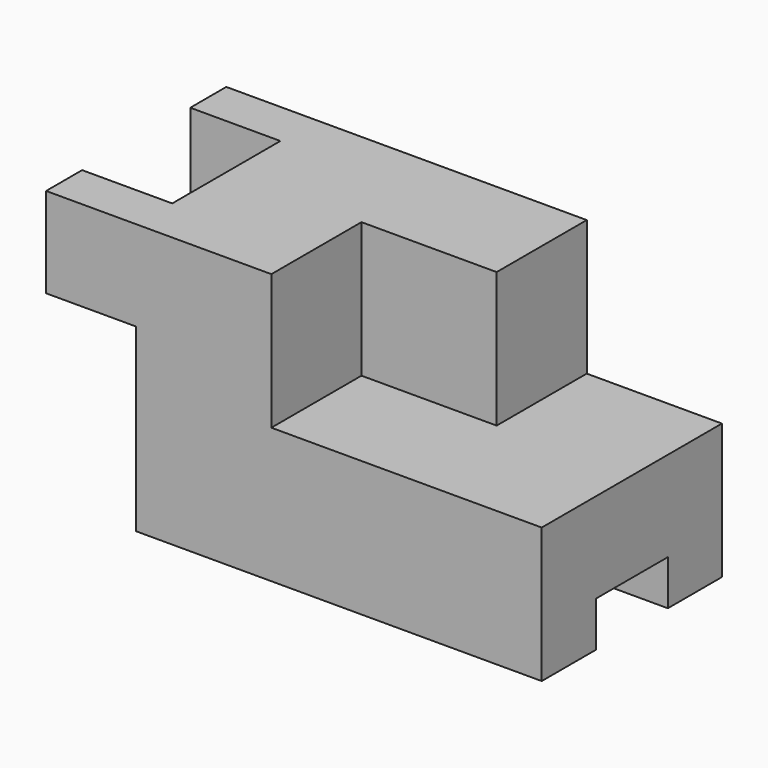
from build123d import *

# Parameters (mm, degrees)
F0_W      = 110
F0_H      = 50
F1_DEPTH  = 60
F2_W      = 30
F2_H      = 30
F3_DEPTH  = 50.001
F4_W      = 20
F4_H      = 40
F5_DEPTH  = 50.001
F6_W      = 30
F6_H      = 30
F7_DEPTH  = 25
F8_W      = 20
F8_H      = 10
F9_DEPTH  = 110.001
F10_W     = 20
F10_H     = 30
F11_DEPTH = 60.001


with BuildPart() as f1:
    # F0 (on Top) → F1 (new body)
    with BuildSketch(Plane.XY):
        Rectangle(F0_W, F0_H)
    extrude(amount=F1_DEPTH)

    # F2 (on face) → F3 (cut, through all)
    with BuildSketch(Plane.XZ.offset(25)):
        with Locations((40, 45)):
            Rectangle(F2_W, F2_H)
    extrude(amount=-F3_DEPTH, mode=Mode.SUBTRACT)

    # F4 (on face) → F5 (cut, through all)
    with BuildSketch(Plane.XZ.offset(25)):
        with Locations((-45, 20)):
            Rectangle(F4_W, F4_H)
    extrude(amount=-F5_DEPTH, mode=Mode.SUBTRACT)

    # F6 (on face) → F7 (cut)
    with BuildSketch(Plane.XZ.offset(25)):
        with Locations((10, 45)):
            Rectangle(F6_W, F6_H)
    extrude(amount=-F7_DEPTH, mode=Mode.SUBTRACT)

    # F8 (on face) → F9 (cut, through all)
    with BuildSketch(Plane.YZ.offset(55)):
        with Locations((0, 5)):
            Rectangle(F8_W, F8_H)
    extrude(amount=-F9_DEPTH, mode=Mode.SUBTRACT)

    # F10 (on face) → F11 (cut, through all)
    with BuildSketch(Plane.XY.offset(60)):
        with Locations((-45, 0)):
            Rectangle(F10_W, F10_H)
    extrude(amount=-F11_DEPTH, mode=Mode.SUBTRACT)


solid = f1.part
